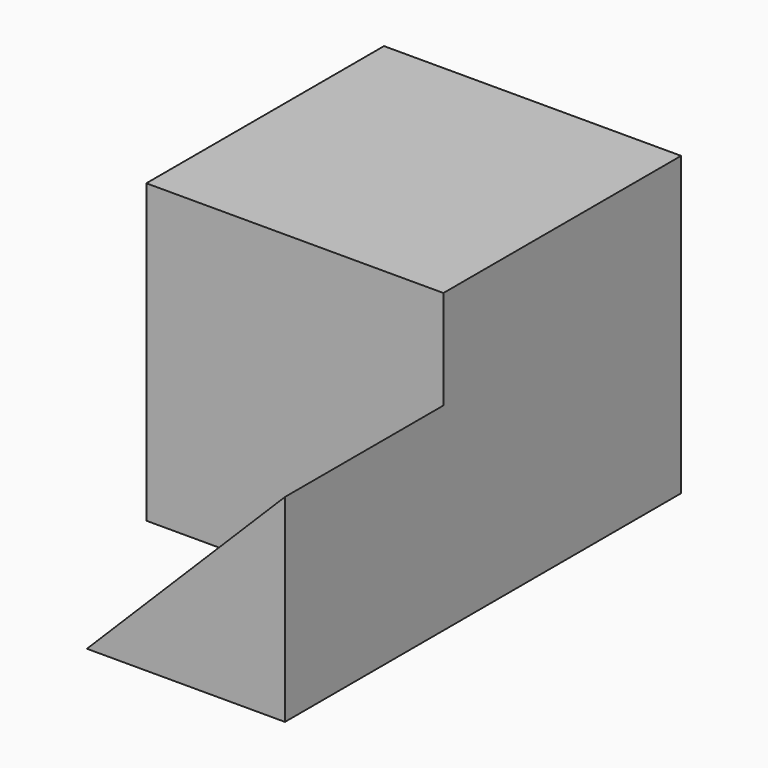
from build123d import *

# Parameters (mm, degrees)
F0_W     = 15
F0_H     = 15
F1_DEPTH = 15
F3_DEPTH = 10


with BuildPart() as f1:
    # F0 (on Top) → F1 (new body)
    with BuildSketch(Plane.XY):
        with Locations((5.322702, 2.974191)):
            Rectangle(F0_W, F0_H)
    extrude(amount=F1_DEPTH)

    # F2 (on face) → F3 (join)
    with BuildSketch(Plane.XZ.offset(4.525809)):
        Polygon((12.822702, 0), (12.822702, 10), (2.822702, 0), align=None)
    extrude(amount=F3_DEPTH)


solid = f1.part
